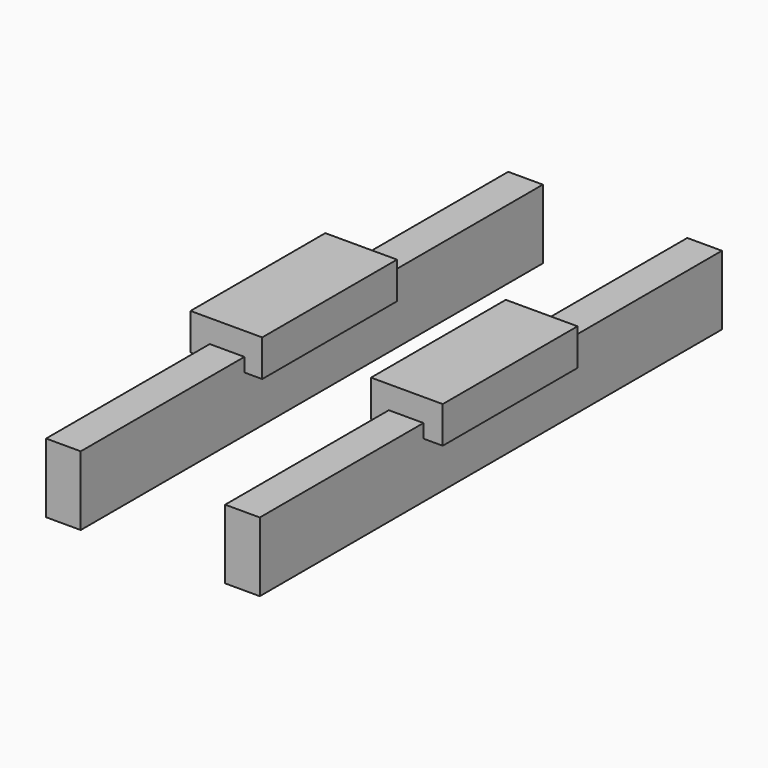
from build123d import *

# Parameters (mm, degrees)
F0_W          = 18.288
F0_H          = 29.3116
F0_H_2        = 7.2644
F1_DEPTH      = 152.4
F1_DEPTH_BACK = 152.4
F2_DEPTH      = 44.45
F2_DEPTH_BACK = 44.45


with BuildPart() as f1:
    # F0 (on Front) → F1 (new body, two sides)
    with BuildSketch(Plane.XZ) as f1_sk:
        with Locations((-47.244, -21.9202)):
            Rectangle(F0_W, F0_H)
        with Locations((-47.244, -3.6322)):
            Rectangle(F0_W, F0_H_2)
        with Locations((47.244, -21.9202)):
            Rectangle(F0_W, F0_H)
        with Locations((47.244, -3.6322)):
            Rectangle(F0_W, F0_H_2)
    extrude(amount=F1_DEPTH)
    extrude(f1_sk.sketch, amount=-F1_DEPTH_BACK)


with BuildPart() as f2:
    # F0 (on Front) → F2 (new body, two sides)
    with BuildSketch(Plane.XZ) as f2_sk:
        Polygon((-66.548, -7.2644), (-56.388, -7.2644), (-56.388, 0), (-38.1, 0), (-38.1, -7.2644), (-28.702, -7.2644), (-28.702, 12.0904), (-66.548, 12.0904), align=None)
        Polygon((56.388, 0), (56.388, -7.2644), (66.548, -7.2644), (66.548, 12.0904), (28.702, 12.0904), (28.702, -7.2644), (38.1, -7.2644), (38.1, 0), align=None)
    extrude(amount=F2_DEPTH)
    extrude(f2_sk.sketch, amount=-F2_DEPTH_BACK)


solid = Compound([f1.part, f2.part])
